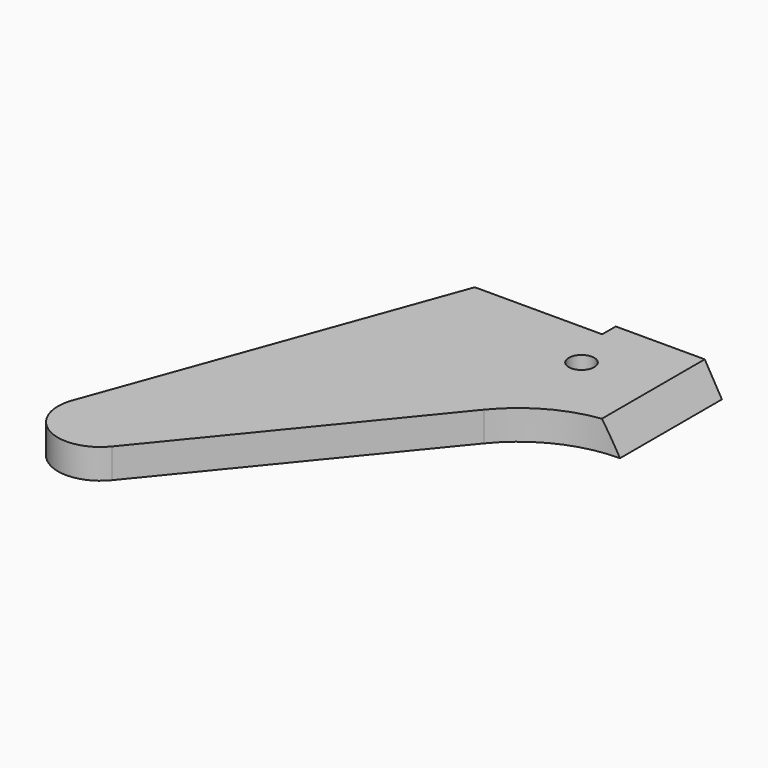
from build123d import *

# Parameters (mm, degrees)
PAD002_DEPTH    = 7
SKETCH025_R     = 3
POCKET018_DEPTH = 15
POCKET019_DEPTH = 98.908358
SKETCH028_R     = 3
POCKET021_DEPTH = 7.001


with BuildPart() as part:
    # Sketch023 → Pad002 (new body)
    with BuildSketch(Plane.XY):
        with BuildLine():
            Line((75.261973, 88.907358), (50.261973, 88.907358))
            Line((50.261973, 84.907358), (50.261973, 88.907358))
            Line((50.261973, 84.907358), (20.261973, 84.907358))
            Line((-9.396926, 3.420201), (20.261973, 84.907358))
            ThreePointArc((-9.396926, 3.420201), (-4.942745, -8.693059), (7.744606, -6.326221))
            Line((7.744606, -6.326221), (52.028155, 47.886022))
            ThreePointArc((75.261973, 58.907358), (62.404289, 56.012339), (52.028155, 47.886022))
            Line((75.261973, 88.907358), (75.261973, 58.907358))
        make_face()
    extrude(amount=PAD002_DEPTH)

    # Sketch025 (on Face4 of Pad002) → Pocket018 (cut)
    with BuildSketch(Plane(origin=(0, 84.907358, 0), x_dir=(-1, 0, 0), z_dir=(0, 1, 0))):
        with Locations((-35.261973, 3.5)):
            Circle(SKETCH025_R)
    extrude(amount=-POCKET018_DEPTH, mode=Mode.SUBTRACT)

    # Sketch026 (on Face2 of Pocket018) → Pocket019 (cut, through all)
    with BuildSketch(Plane(origin=(0, 88.907358, 0), x_dir=(-1, 0, 0), z_dir=(0, 1, 0))):
        Polygon((-75.261973, 7), (-75.261973, 0), (-71.220521, 7), align=None)
    extrude(amount=-POCKET019_DEPTH, mode=Mode.SUBTRACT)

    # Sketch028 → Pocket021 (cut, through all)
    with BuildSketch(Plane.XY.offset(7)):
        with Locations((54.303425, 73.770624)):
            Circle(SKETCH028_R)
    extrude(amount=-POCKET021_DEPTH, mode=Mode.SUBTRACT)


with BuildPart() as part_1:
    # Body002 placement: moved
    add(part.part.moved(Location((-250, 0, 0))))


solid = part_1.part
